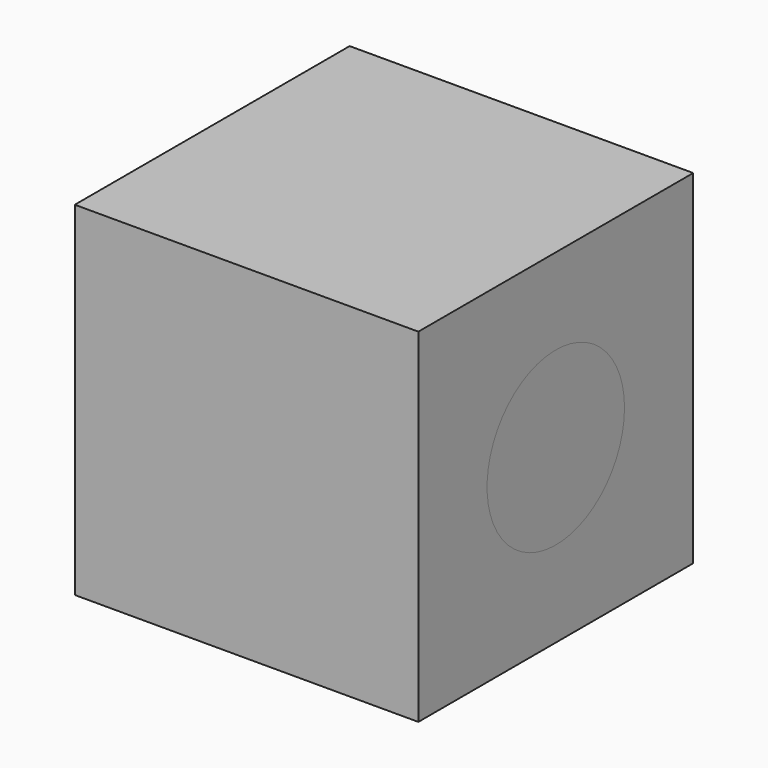
from build123d import *

# Parameters (mm, degrees)
SKETCH_W     = 200
SKETCH_H     = 200
PAD_DEPTH    = 200
SKETCH001_R  = 50
PAD001_DEPTH = 10


with BuildPart() as corps:
    # Sketch → Pad (new body)
    with BuildSketch(Plane.XY):
        Rectangle(SKETCH_W, SKETCH_H)
    extrude(amount=PAD_DEPTH)

    # Sketch001 (on Face3 of Pad) → Pad001 (join)
    with BuildSketch(Plane.YZ.offset(100)):
        with Locations((0, 100)):
            Circle(SKETCH001_R)
    extrude(amount=-PAD001_DEPTH)


with BuildPart() as corps001:
    # Sketch005 → Revolution001 (revolve)
    with BuildSketch(Plane.XY.offset(100)):
        with BuildLine():
            Line((100, 50), (100, 0))
            Line((100, 0), (-86.60254, 0))
            ThreePointArc((100, 50), (-12.484445, 96.592583), (-86.60254, 0))
        make_face()
    revolve(axis=Axis((100, 0, 100), (-1, 0, 0)))


solid = Compound([corps.part, corps001.part])
